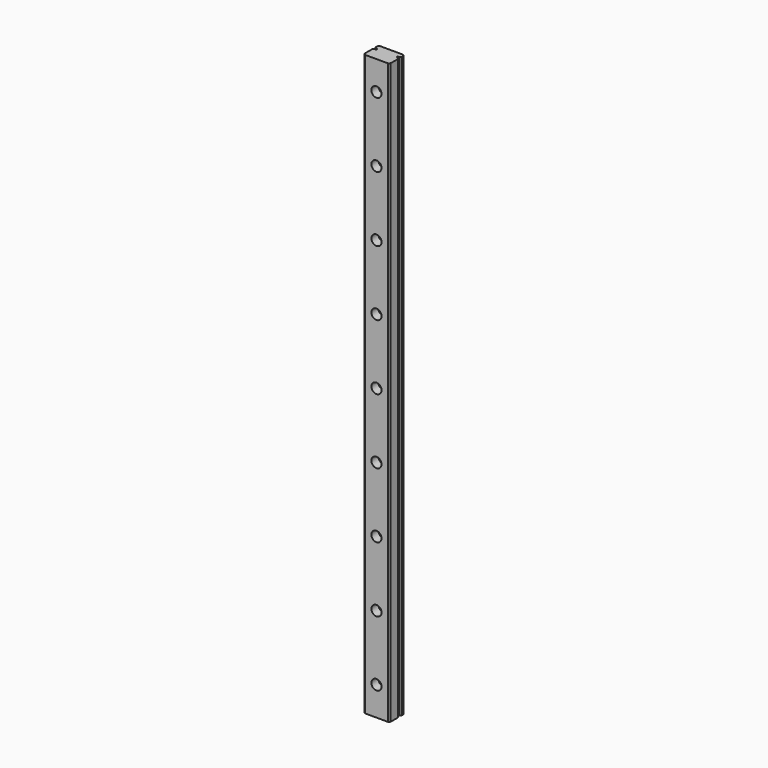
from build123d import *

# Parameters (mm, degrees)
SKETCH_W               = 9
SKETCH_H               = 6.5
PAD_DEPTH              = 200
SKETCH001_W            = 1
SKETCH001_H            = 0.5
POCKET_DEPTH           = 600.616776
SKETCH002_R            = 3
POCKET001_DEPTH        = 3.5
LINEARPATTERN_COUNT    = 9
LINEARPATTERN_PITCH    = 22.5
SKETCH003_R            = 1.75
POCKET002_DEPTH        = 3.001
LINEARPATTERN001_COUNT = 9
LINEARPATTERN001_PITCH = 22.5
CHAMFER_SIZE           = 0.5


with BuildPart() as part:
    # Sketch → Pad (new body)
    with BuildSketch(Plane.XY):
        with Locations((0, 3.25)):
            Rectangle(SKETCH_W, SKETCH_H)
    extrude(amount=PAD_DEPTH)

    # Sketch001 (on Face6 of Pad) → Pocket (cut, through all)
    with BuildSketch(Plane.XY.offset(200)):
        with Locations((-4, 4.5)):
            Rectangle(SKETCH001_W, SKETCH001_H)
    pocket = extrude(amount=-POCKET_DEPTH, mode=Mode.SUBTRACT)

    # Mirrored: Pocket across Sketch001 V_Axis
    add(pocket.mirror(Plane(origin=(0, 0, 200), x_dir=(0, 0, 1), z_dir=(1, 0, 0))), mode=Mode.SUBTRACT)

    # Sketch002 (on Face11 of Mirrored) → Pocket001 (cut)
    with BuildSketch(Plane(origin=(0, 6.5, 0), x_dir=(-1, 0, 0), z_dir=(0, 1, 0))):
        with Locations((0, 10)):
            Circle(SKETCH002_R)
    pocket001 = extrude(amount=-POCKET001_DEPTH, mode=Mode.SUBTRACT)

    # LinearPattern: Pocket001 ×9
    with Locations(*[(0, 0, i * LINEARPATTERN_PITCH) for i in range(1, LINEARPATTERN_COUNT)]):
        add(pocket001, mode=Mode.SUBTRACT)

    # Sketch003 (on Face31 of LinearPattern) → Pocket002 (cut, through all)
    with BuildSketch(Plane(origin=(0, 3, 0), x_dir=(-1, 0, 0), z_dir=(0, 1, 0))):
        with Locations((0, 10)):
            Circle(SKETCH003_R)
    pocket002 = extrude(amount=-POCKET002_DEPTH, mode=Mode.SUBTRACT)

    # LinearPattern001: Pocket002 ×9
    with Locations(*[(0, 0, i * LINEARPATTERN001_PITCH) for i in range(1, LINEARPATTERN001_COUNT)]):
        add(pocket002, mode=Mode.SUBTRACT)

    # Chamfer
    chamfer_edges = [part.edges().sort_by_distance(p)[0] for p in [
        (-4.5, 0, 100),
        (-4.5, 4.25, 100),
        (-4.5, 4.75, 100),
        (-4.5, 6.5, 100),
        (4.5, 0, 100),
        (4.5, 4.25, 100),
        (4.5, 4.75, 100),
        (4.5, 6.5, 100),
    ]]
    chamfer(chamfer_edges, length=CHAMFER_SIZE)


solid = part.part
